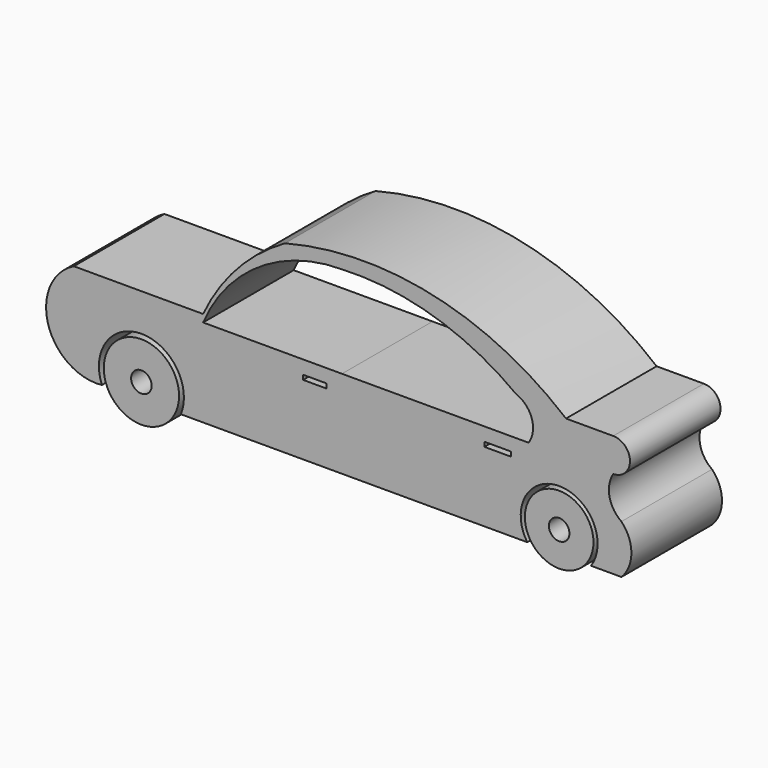
from build123d import *

# Parameters (mm, degrees)
F0_R     = 16.887977
F0_R_2   = 4.608627
F0_R_3   = 15.390351
F0_R_4   = 4.608633
F0_W     = 11.950485
F0_H     = 2.040328
F0_W_2   = 62.29246
F0_H_2   = 39.494921
F0_W_3   = 10.493115
F1_DEPTH = 50.8


with BuildPart() as f1:
    # F0 (on Front) → F1 (new body)
    with BuildSketch(Plane.XZ):
        with BuildLine():
            Line((-103.385788, -3.745581), (-128.54061, -3.745581))
            ThreePointArc((-128.54061, -3.745581), (-131.66662, -9.998291), (-132.742612, -16.905574))
            Line((-132.742612, -16.905574), (-110.034121, -16.905574))
            ThreePointArc((-110.034121, -16.905574), (-104.690656, -11.345713), (-103.385788, -3.745581))
        make_face()
        with Locations((-89.97792, -32.499507)):
            Circle(F0_R)
        with Locations((-89.97792, -32.499507)):
            Circle(F0_R_2, mode=Mode.SUBTRACT)
        with Locations((97.440779, -29.87623)):
            Circle(F0_R_3)
        with Locations((97.440779, -29.87623)):
            Circle(F0_R_4, mode=Mode.SUBTRACT)
        with BuildLine():
            Line((0, -39.494921), (64.50405, -39.494921))
            Line((64.50405, -39.494921), (83.158471, -13.26213))
            ThreePointArc((83.158471, -13.26213), (85.019224, -6.700045), (83.741426, 0))
            Line((83.741426, 0), (0, 0))
            Line((0, 0), (0, -39.494921))
        make_face()
        with Locations((69.871374, -7.069891)):
            Rectangle(F0_W, F0_H, mode=Mode.SUBTRACT)
        with Locations((-31.14623, -19.74746)):
            Rectangle(F0_W_2, F0_H_2)
        with Locations((-12.178954, -7.069891)):
            Rectangle(F0_W_3, F0_H, mode=Mode.SUBTRACT)
        with BuildLine():
            ThreePointArc((121.702991, 0), (129.208483, 7.505492), (121.702991, 15.010984))
            Line((121.702991, 15.010984), (100.514565, 15.010984))
            ThreePointArc((100.514565, 15.010984), (40.885283, 44.311942), (-25.54531, 43.228554))
            ThreePointArc((-25.54531, 43.228554), (-47.037325, 26.163972), (-62.29246, 3.351967))
            Line((-62.29246, 3.351967), (-120.296068, 3.351967))
            ThreePointArc((-120.296068, 3.351967), (-124.849638, 0.304191), (-128.54061, -3.745581))
            Line((-128.54061, -3.745581), (-103.385788, -3.745581))
            ThreePointArc((-103.385788, -3.745581), (-104.690656, -11.345713), (-110.034121, -16.905574))
            Line((-110.034121, -16.905574), (-132.742612, -16.905574))
            ThreePointArc((-132.742612, -16.905574), (-125.247939, -33.764261), (-107.710978, -39.494921))
            ThreePointArc((-107.710978, -39.494921), (-89.97792, -13.436528), (-72.244862, -39.494921))
            Line((-72.244862, -39.494921), (-62.29246, -39.494921))
            Line((-62.29246, -39.494921), (-62.29246, 0))
            ThreePointArc((-62.29246, 0), (-37.363419, 30.012007), (0, 41.243773))
            ThreePointArc((0, 41.243773), (41.1798, 36.092776), (78.203395, 17.342787))
            ThreePointArc((78.203395, 17.342787), (85.173049, 10.012774), (83.741426, 0))
            ThreePointArc((83.741426, 0), (85.019224, -6.700045), (83.158471, -13.26213))
            Line((83.158471, -13.26213), (64.50405, -39.494921))
            Line((64.50405, -39.494921), (83.124629, -39.494921))
            ThreePointArc((83.124629, -39.494921), (97.440779, -12.628873), (111.756929, -39.494921))
            Line((111.756929, -39.494921), (125.372797, -39.494921))
            ThreePointArc((125.372797, -39.494921), (129.844935, -28.542269), (125.372797, -17.589617))
            ThreePointArc((125.372797, -17.589617), (120.033847, -9.525875), (121.702991, 0))
        make_face()
    extrude(amount=F1_DEPTH)


solid = f1.part
